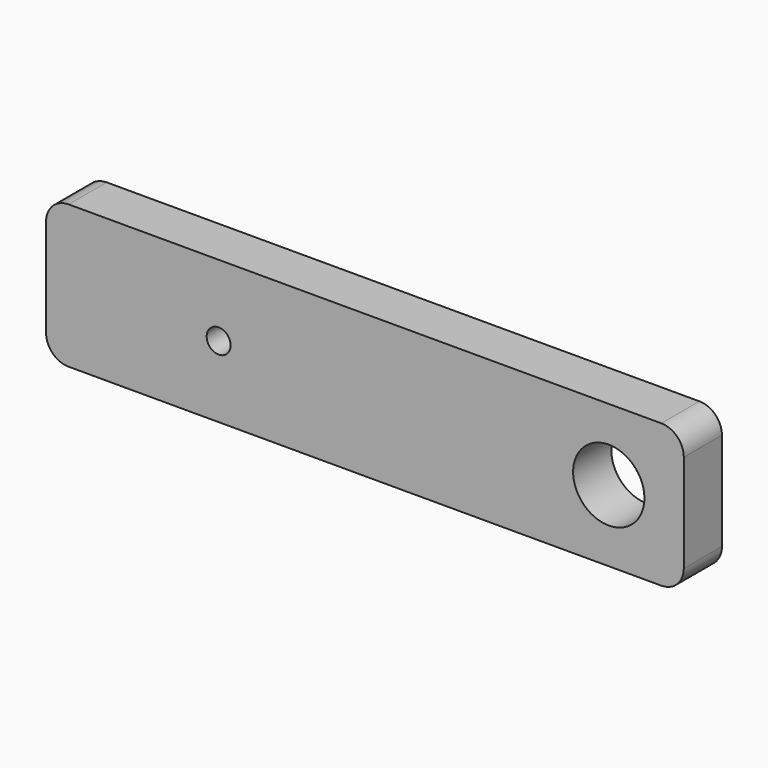
from build123d import *

# Parameters (mm, degrees)
F0_W     = 85
F0_H     = 19.05
F0_R     = 1.6
F0_R_2   = 4.75
F1_DEPTH = 6.35
F2_R     = 3
F3_R     = 1.5
F4_DEPTH = 5


with BuildPart() as f1:
    # F0 (on Front) → F1 (new body)
    with BuildSketch(Plane.XZ):
        Rectangle(F0_W, F0_H)
        with Locations((-19.5, 0)):
            Circle(F0_R, mode=Mode.SUBTRACT)
        with Locations((32.5, 0)):
            Circle(F0_R_2, mode=Mode.SUBTRACT)
    extrude(amount=F1_DEPTH)

    # F2
    f2_edges = [f1.edges().sort_by_distance(p)[0] for p in [
        (-42.5, -3.175, 9.525),
        (-42.5, -3.175, -9.525),
        (42.5, -3.175, -9.525),
        (42.5, -3.175, 9.525),
    ]]
    fillet(f2_edges, radius=F2_R)

    # F3 (on face) → F4 (cut)
    with BuildSketch(Plane(origin=(0, 0, -9.525), x_dir=(1, 0, 0), z_dir=(0, 0, -1))):
        with Locations((-25.5, 3.2275)):
            Circle(F3_R)
        with Locations((25.5, 3.2275)):
            Circle(F3_R)
    extrude(amount=-F4_DEPTH, mode=Mode.SUBTRACT)


solid = f1.part
